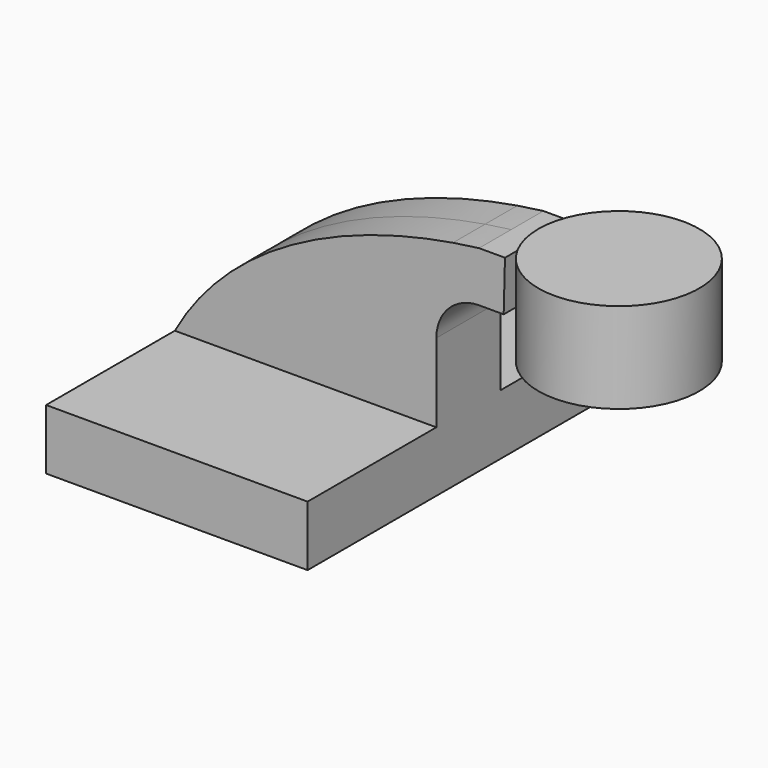
from build123d import *

# Parameters (mm, degrees)
F0_W     = 82.55
F0_H     = 19.05
F1_DEPTH = 63.5
F0_W_2   = 25.4
F0_H_2   = 28.575
F3_DEPTH = 12.7


with BuildPart() as f1:
    # F0 (on Front) → F1 (new body, symmetric)
    with BuildSketch(Plane.XZ):
        with Locations((16.696466, 23.387751)):
            Rectangle(F0_W, F0_H)
    extrude(amount=F1_DEPTH, both=True)

    # F0 (on Front) → F3 (join, symmetric)
    with BuildSketch(Plane.XZ):
        with BuildLine():
            add(Edge.make_bspline(
                [(-24.578534, 32.912751), (-8.033848, 62.853972), (25.966635, 79.755312), (63.214536, 85.903594)],
                knots=[0, 0, 0, 0, 102.7259, 102.7259, 102.7259, 102.7259], degree=3))
            Line((-24.578534, 32.912751), (57.971466, 32.912751))
            Line((57.971466, 32.912751), (57.971466, 57.726823))
            ThreePointArc((57.971466, 57.726823), (61.920092, 67.25965), (71.452919, 71.208276))
            Line((71.452919, 71.208276), (79.226701, 71.208276))
            Line((79.226701, 71.208276), (79.637459, 87.083276))
            Line((79.637459, 87.083276), (71.452919, 87.083276))
            add(Edge.make_bspline(
                [(63.214536, 85.903594), (65.945078, 86.354307), (68.693071, 86.747235), (71.452919, 87.083276)],
                knots=[102.7259, 102.7259, 102.7259, 102.7259, 110.256455, 110.256455, 110.256455, 110.256455], degree=3))
        make_face()
    extrude(amount=F3_DEPTH, both=True)


with BuildPart() as f2:
    # F0 (on Front) → F2 (revolve)
    with BuildSketch(Plane.XZ):
        with Locations((92.730703, 75.775251)):
            Rectangle(F0_W_2, F0_H_2)
    revolve(axis=Axis((105.430703, 0, 75.775251), (0, 0, 1)))


solid = Compound([f1.part, f2.part])
